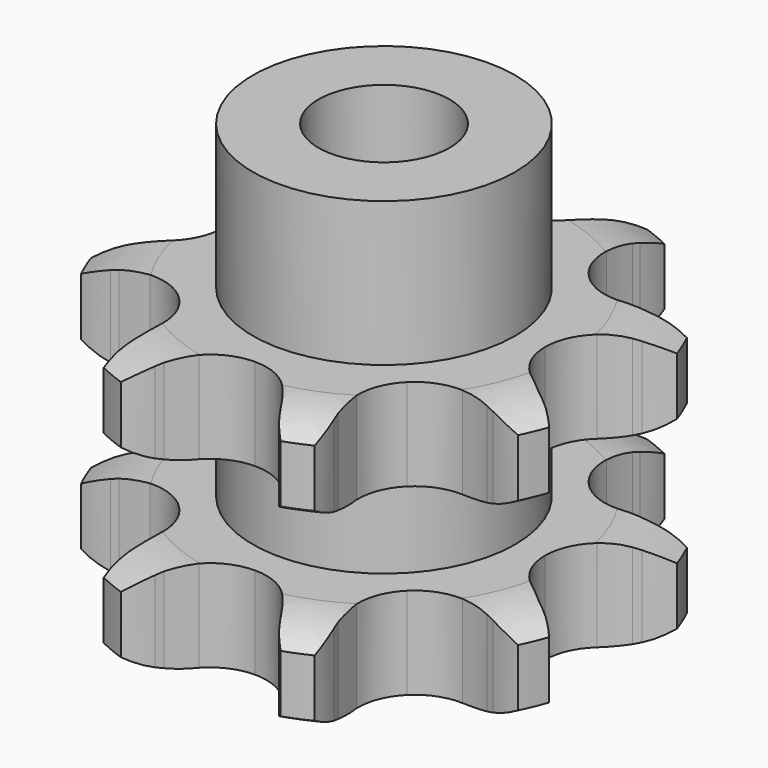
from build123d import *

# Parameters (mm, degrees)
PAD_DEPTH         = 21
SKETCH001_R       = 10
PAD001_DEPTH      = 32
SKETCH002_R       = 5
POCKET_DEPTH      = 0.001
POCKET_DEPTH_BACK = -32.001


with BuildPart() as part:
    # Sprocket → Pad (new body)
    with BuildSketch(Plane.XY):
        with BuildLine():
            ThreePointArc((-7.691496, 18.568914), (-6.037547, 17.419326), (-4.759071, 15.862856))
            Line((-4.759071, 15.862856), (-4.464, 15.381343))
            ThreePointArc((-4.464, 15.381343), (-3.86334, 14.499155), (-3.180891, 13.6786))
            ThreePointArc((-3.180891, 13.6786), (-1.7376, 12.644353), (0, 12.278975))
            ThreePointArc((0, 12.278975), (1.7376, 12.644353), (3.180891, 13.6786))
            ThreePointArc((3.180891, 13.6786), (3.86334, 14.499155), (4.464, 15.381343))
            Line((4.464, 15.381343), (4.759071, 15.862856))
            ThreePointArc((4.759071, 15.862856), (6.037547, 17.419326), (7.691496, 18.568914))
            ThreePointArc((7.691496, 18.568914), (8.048133, 16.586514), (7.851562, 14.581905))
            Line((7.851562, 14.581905), (7.719727, 14.032776))
            ThreePointArc((7.719727, 14.032776), (7.520658, 12.984245), (7.423001, 11.92146))
            ThreePointArc((7.423001, 11.92146), (7.712239, 10.169576), (8.682546, 8.682546))
            ThreePointArc((8.682546, 8.682546), (10.169576, 7.712239), (11.92146, 7.423001))
            Line((11.92146, 7.423001), (14.032776, 7.719727))
            ThreePointArc((14.032776, 7.719727), (14.306504, 7.78913), (14.581905, 7.851562))
            ThreePointArc((14.581905, 7.851562), (16.586514, 8.048133), (18.568914, 7.691496))
            ThreePointArc((18.568914, 7.691496), (17.419326, 6.037547), (15.862856, 4.759071))
            Line((15.862856, 4.759071), (15.381343, 4.464))
            ThreePointArc((15.381343, 4.464), (14.499155, 3.86334), (13.6786, 3.180891))
            ThreePointArc((13.6786, 3.180891), (12.644353, 1.7376), (12.278975, 0))
            ThreePointArc((12.278975, 0), (12.644353, -1.7376), (13.6786, -3.180891))
            Line((13.6786, -3.180891), (15.381343, -4.464))
            ThreePointArc((15.381343, -4.464), (15.623973, -4.608479), (15.862856, -4.759071))
            ThreePointArc((15.862856, -4.759071), (17.419326, -6.037547), (18.568914, -7.691496))
            ThreePointArc((18.568914, -7.691496), (16.586514, -8.048133), (14.581905, -7.851562))
            Line((14.581905, -7.851562), (14.032776, -7.719727))
            ThreePointArc((14.032776, -7.719727), (12.984245, -7.520658), (11.92146, -7.423001))
            ThreePointArc((11.92146, -7.423001), (10.169576, -7.712239), (8.682546, -8.682546))
            ThreePointArc((8.682546, -8.682546), (7.712239, -10.169576), (7.423001, -11.92146))
            Line((7.423001, -11.92146), (7.719727, -14.032776))
            ThreePointArc((7.719727, -14.032776), (7.78913, -14.306504), (7.851562, -14.581905))
            ThreePointArc((7.851562, -14.581905), (8.048133, -16.586514), (7.691496, -18.568914))
            ThreePointArc((7.691496, -18.568914), (6.037547, -17.419326), (4.759071, -15.862856))
            Line((4.759071, -15.862856), (4.464, -15.381343))
            ThreePointArc((4.464, -15.381343), (3.86334, -14.499155), (3.180891, -13.6786))
            ThreePointArc((3.180891, -13.6786), (1.7376, -12.644353), (0, -12.278975))
            ThreePointArc((0, -12.278975), (-1.7376, -12.644353), (-3.180891, -13.6786))
            Line((-3.180891, -13.6786), (-4.464, -15.381343))
            ThreePointArc((-4.464, -15.381343), (-4.608479, -15.623973), (-4.759071, -15.862856))
            ThreePointArc((-4.759071, -15.862856), (-6.037547, -17.419326), (-7.691496, -18.568914))
            ThreePointArc((-7.691496, -18.568914), (-8.048133, -16.586514), (-7.851562, -14.581905))
            Line((-7.851562, -14.581905), (-7.719727, -14.032776))
            ThreePointArc((-7.719727, -14.032776), (-7.520658, -12.984245), (-7.423001, -11.92146))
            ThreePointArc((-7.423001, -11.92146), (-7.712239, -10.169576), (-8.682546, -8.682546))
            ThreePointArc((-8.682546, -8.682546), (-10.169576, -7.712239), (-11.92146, -7.423001))
            Line((-11.92146, -7.423001), (-14.032776, -7.719727))
            ThreePointArc((-14.032776, -7.719727), (-14.306504, -7.78913), (-14.581905, -7.851562))
            ThreePointArc((-14.581905, -7.851562), (-16.586514, -8.048133), (-18.568914, -7.691496))
            ThreePointArc((-18.568914, -7.691496), (-17.419326, -6.037547), (-15.862856, -4.759071))
            Line((-15.862856, -4.759071), (-15.381343, -4.464))
            ThreePointArc((-15.381343, -4.464), (-14.499155, -3.86334), (-13.6786, -3.180891))
            ThreePointArc((-13.6786, -3.180891), (-12.644353, -1.7376), (-12.278975, 0))
            ThreePointArc((-12.278975, 0), (-12.644353, 1.7376), (-13.6786, 3.180891))
            Line((-13.6786, 3.180891), (-15.381343, 4.464))
            ThreePointArc((-15.381343, 4.464), (-15.623973, 4.608479), (-15.862856, 4.759071))
            ThreePointArc((-15.862856, 4.759071), (-17.419326, 6.037547), (-18.568914, 7.691496))
            ThreePointArc((-18.568914, 7.691496), (-16.586514, 8.048133), (-14.581905, 7.851562))
            Line((-14.581905, 7.851562), (-14.032776, 7.719727))
            ThreePointArc((-14.032776, 7.719727), (-12.984245, 7.520658), (-11.92146, 7.423001))
            ThreePointArc((-11.92146, 7.423001), (-10.169576, 7.712239), (-8.682546, 8.682546))
            ThreePointArc((-8.682546, 8.682546), (-7.712239, 10.169576), (-7.423001, 11.92146))
            Line((-7.423001, 11.92146), (-7.719727, 14.032776))
            ThreePointArc((-7.719727, 14.032776), (-7.78913, 14.306504), (-7.851562, 14.581905))
            ThreePointArc((-7.851562, 14.581905), (-8.048133, 16.586514), (-7.691496, 18.568914))
        make_face()
    extrude(amount=PAD_DEPTH)

    # Sketch → Groove (revolve, cut)
    with BuildSketch(Plane.XZ):
        with BuildLine():
            Line((13.979381, 0), (23.979381, 0))
            Line((23.979381, 21), (23.979381, 0))
            Line((13.979381, 21), (23.979381, 21))
            ThreePointArc((18.5, 19.772462), (16.32154, 20.687658), (13.979381, 21))
            Line((18.5, 15.38449), (18.5, 19.772462))
            ThreePointArc((13.979381, 14), (16.343319, 14.353879), (18.5, 15.38449))
            Line((13.979381, 14), (10, 14))
            Line((10, 14), (10, 7))
            Line((10, 7), (13.979381, 7))
            ThreePointArc((18.5, 5.687972), (16.332964, 6.665362), (13.979381, 7))
            Line((18.5, 1.3), (18.5, 5.687972))
            ThreePointArc((13.979381, 0), (16.331295, 0.331455), (18.5, 1.3))
        make_face()
    revolve(axis=Axis((0, 0, 0), (0, 0, 1)), mode=Mode.SUBTRACT)

    # Sketch001 → Pad001 (join)
    with BuildSketch(Plane.XY):
        Circle(SKETCH001_R)
    extrude(amount=PAD001_DEPTH)

    # Sketch002 → Pocket (cut, two sides)
    with BuildSketch(Plane.XY) as pocket_sk:
        Circle(SKETCH002_R)
    extrude(amount=-POCKET_DEPTH, mode=Mode.SUBTRACT)
    extrude(pocket_sk.sketch, amount=-POCKET_DEPTH_BACK, mode=Mode.SUBTRACT)


solid = part.part
